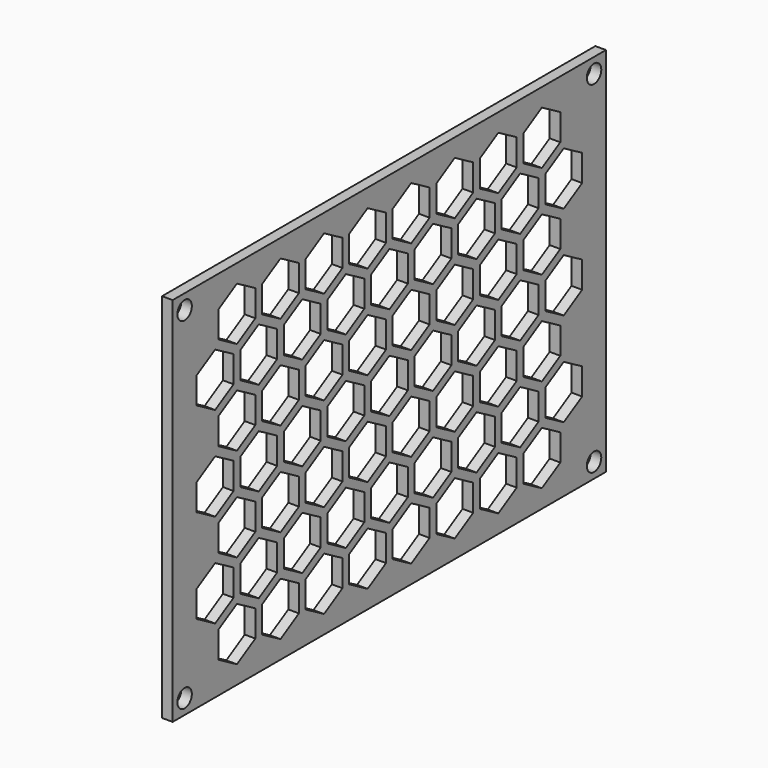
from build123d import *

# Parameters (mm, degrees)
SKETCH051_W            = 101.8
SKETCH051_H            = 69.8
SKETCH051_R            = 1.7
PAD017_DEPTH           = 2
POCKET033_DEPTH        = 2.001
LINEARPATTERN012_COUNT = 8
LINEARPATTERN012_PITCH = 10.235714
POCKET034_DEPTH        = 2.001
LINEARPATTERN013_COUNT = 9
LINEARPATTERN013_PITCH = 10.2375


with BuildPart() as part:
    # Sketch051 → Pad017 (new body)
    with BuildSketch(Plane.YZ.offset(-60)):
        with Locations((53.5, -37.5)):
            Rectangle(SKETCH051_W, SKETCH051_H)
        with Locations((5.4, -5.4)):
            Circle(SKETCH051_R, mode=Mode.SUBTRACT)
        with Locations((101.6, -5.4)):
            Circle(SKETCH051_R, mode=Mode.SUBTRACT)
        with Locations((101.6, -69.6)):
            Circle(SKETCH051_R, mode=Mode.SUBTRACT)
        with Locations((5.4, -69.6)):
            Circle(SKETCH051_R, mode=Mode.SUBTRACT)
    extrude(amount=-PAD017_DEPTH)

    # Sketch052 → Pocket033 (cut, through all)
    with BuildSketch(Plane.YZ.offset(-60)):
        Polygon((13.361873, -8.504), (13.361873, -13.504), (17.692, -16.004), (22.022127, -13.504), (22.022127, -8.504), (17.692, -6.004), align=None)
        Polygon((22.022127, -31.168), (22.022127, -26.168), (17.692, -23.668), (13.361873, -26.168), (13.361873, -31.168), (17.692, -33.668), align=None)
        Polygon((22.022127, -48.832), (22.022127, -43.832), (17.692, -41.332), (13.361873, -43.832), (13.361873, -48.832), (17.692, -51.332), align=None)
        Polygon((22.022127, -66.496), (22.022127, -61.496), (17.692, -58.996), (13.361873, -61.496), (13.361873, -66.496), (17.692, -68.996), align=None)
    pocket033 = extrude(amount=-POCKET033_DEPTH, mode=Mode.SUBTRACT)

    # LinearPattern012: Pocket033 ×8
    with Locations(*[(0, i * LINEARPATTERN012_PITCH, 0) for i in range(1, LINEARPATTERN012_COUNT)]):
        add(pocket033, mode=Mode.SUBTRACT)

    # Sketch053 → Pocket034 (cut, through all)
    with BuildSketch(Plane.YZ.offset(-60)):
        Polygon((8.243873, -17.336), (8.243873, -22.336), (12.574, -24.836), (16.904127, -22.336), (16.904127, -17.336), (12.574, -14.836), align=None)
        Polygon((12.574, -32.5), (8.243873, -35), (8.243873, -40), (12.574, -42.5), (16.904127, -40), (16.904127, -35), align=None)
        Polygon((16.904127, -52.664), (12.574, -50.164), (8.243873, -52.664), (8.243873, -57.664), (12.574, -60.164), (16.904127, -57.664), align=None)
    pocket034 = extrude(amount=-POCKET034_DEPTH, mode=Mode.SUBTRACT)

    # LinearPattern013: Pocket034 ×9
    with Locations(*[(0, i * LINEARPATTERN013_PITCH, 0) for i in range(1, LINEARPATTERN013_COUNT)]):
        add(pocket034, mode=Mode.SUBTRACT)


with BuildPart() as part_1:
    # Body006 placement: moved
    add(part.part.moved(Location((2, 0, 0))))


solid = part_1.part
